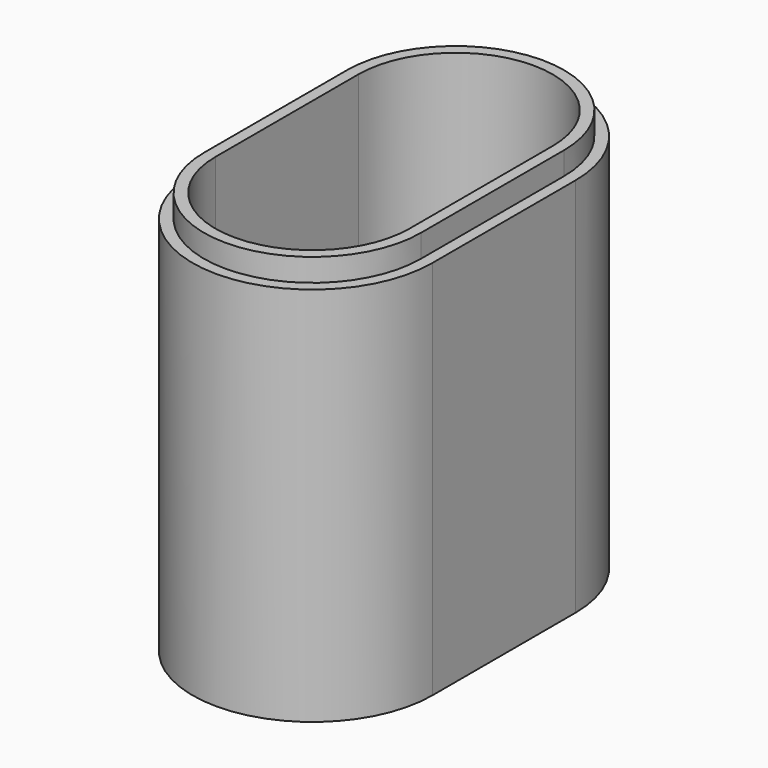
from build123d import *

# Parameters (mm, degrees)
F1_DEPTH = 3
F2_DEPTH = 12
F3_DEPTH = 50
F5_DEPTH = 3


with BuildPart() as f1:
    # F0 (on Top) → F1 (new body)
    with BuildSketch(Plane.XY):
        with BuildLine():
            Line((15.75, -23.5), (15.75, 0))
            ThreePointArc((15.75, 0), (0, 15.75), (-15.75, 0))
            Line((-15.75, 0), (-15.75, -23.5))
            ThreePointArc((-15.75, -23.5), (0, -39.25), (15.75, -23.5))
        make_face()
        with BuildLine():
            ThreePointArc((-12.75, 0), (0, 12.75), (12.75, 0))
            Line((12.75, 0), (12.75, -23.5))
            ThreePointArc((12.75, -23.5), (0, -36.25), (-12.75, -23.5))
            Line((-12.75, -23.5), (-12.75, 0))
        make_face(mode=Mode.SUBTRACT)
        with BuildLine():
            ThreePointArc((-12.75, 0), (0, -12.75), (12.75, 0))
            ThreePointArc((12.75, 0), (0, 12.75), (-12.75, 0))
        make_face()
        with BuildLine():
            Line((12.75, -23.5), (12.75, 0))
            ThreePointArc((12.75, 0), (0, -12.75), (-12.75, 0))
            Line((-12.75, 0), (-12.75, -23.5))
            ThreePointArc((-12.75, -23.5), (0, -36.25), (12.75, -23.5))
        make_face()
    extrude(amount=F1_DEPTH)

    # F0 (on Top) → F2 (join)
    with BuildSketch(Plane.XY):
        with BuildLine():
            Line((12.75, -23.5), (12.75, 0))
            ThreePointArc((12.75, 0), (0, -12.75), (-12.75, 0))
            Line((-12.75, 0), (-12.75, -23.5))
            ThreePointArc((-12.75, -23.5), (0, -36.25), (12.75, -23.5))
        make_face()
    extrude(amount=F2_DEPTH)

    # F0 (on Top) → F3 (join)
    with BuildSketch(Plane.XY):
        with BuildLine():
            Line((15.75, -23.5), (15.75, 0))
            ThreePointArc((15.75, 0), (0, 15.75), (-15.75, 0))
            Line((-15.75, 0), (-15.75, -23.5))
            ThreePointArc((-15.75, -23.5), (0, -39.25), (15.75, -23.5))
        make_face()
        with BuildLine():
            ThreePointArc((-12.75, 0), (0, 12.75), (12.75, 0))
            Line((12.75, 0), (12.75, -23.5))
            ThreePointArc((12.75, -23.5), (0, -36.25), (-12.75, -23.5))
            Line((-12.75, -23.5), (-12.75, 0))
        make_face(mode=Mode.SUBTRACT)
    extrude(amount=F3_DEPTH)

    # F4 (on face) → F5 (join)
    with BuildSketch(Plane.XY.offset(50)):
        with BuildLine():
            ThreePointArc((14.25, 0), (0, 14.25), (-14.25, 0))
            Line((-14.25, 0), (-14.25, -23.5))
            ThreePointArc((-14.25, -23.5), (0, -37.75), (14.25, -23.5))
            Line((14.25, -23.5), (14.25, 0))
        make_face()
        with BuildLine():
            ThreePointArc((-12.75, 0), (0, 12.75), (12.75, 0))
            Line((12.75, 0), (12.75, -23.5))
            ThreePointArc((12.75, -23.5), (0, -36.25), (-12.75, -23.5))
            Line((-12.75, -23.5), (-12.75, 0))
        make_face(mode=Mode.SUBTRACT)
    extrude(amount=F5_DEPTH)


solid = f1.part
